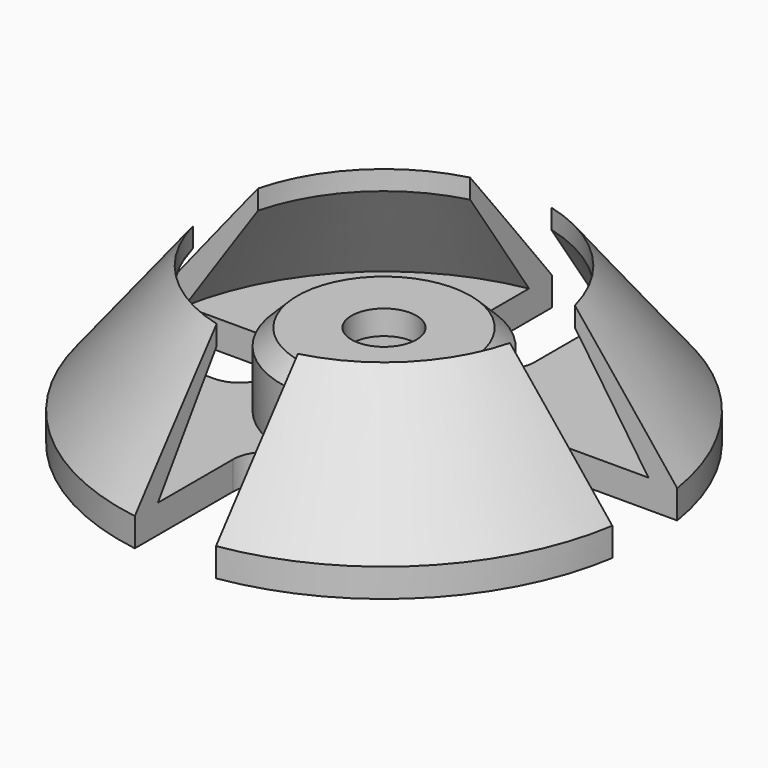
from build123d import *

# Parameters (mm, degrees)
F0_R      = 32.5
F0_R_2    = 12.65
F0_R_3    = 11.15
F1_DEPTH  = 3.5
F2_DEPTH  = 9
F3_R      = 11.15
F3_R_2    = 4
F4_DEPTH  = 3
F5_SIZE   = 2
F10_DEPTH = 25
F11_DEPTH = 15.2
F12_R     = 4


with BuildPart() as f1:
    # F0 (on Top) → F1 (new body)
    with BuildSketch(Plane.XY):
        Circle(F0_R)
        Circle(F0_R_2, mode=Mode.SUBTRACT)
        Circle(F0_R_2)
        Circle(F0_R_3, mode=Mode.SUBTRACT)
    extrude(amount=-F1_DEPTH)

    # F0 (on Top) → F2 (join)
    with BuildSketch(Plane.XY):
        Circle(F0_R_2)
        Circle(F0_R_3, mode=Mode.SUBTRACT)
    extrude(amount=F2_DEPTH)

    # F3 (on face) → F4 (join)
    with BuildSketch(Plane.XY.offset(9)):
        Circle(F3_R)
        Circle(F3_R_2, mode=Mode.SUBTRACT)
    extrude(amount=-F4_DEPTH)

    # F5
    f5_edges = [f1.edges().sort_by_distance(p)[0] for p in [
        (-12.65, 0, 9),
    ]]
    chamfer(f5_edges, length=F5_SIZE)

    # F6 (on Front) → F7 (revolve)
    with BuildSketch(Plane.XZ):
        Polygon((-20.1347596889, 15.719441213), (-32.5, 0), (-29, 0), (-20.1347596889, 13.319441213), align=None)
    revolve(axis=Axis((0, 0, 0), (0, 0, -1)))

    # F9 (on offset) → F10 (cut)
    with BuildSketch(Plane.XY.offset(9)):
        with BuildLine():
            Line((5, 35), (-5, 35))
            Line((-5, 35), (-5, 12))
            ThreePointArc((-5, 12), (0, 13), (5, 12))
            Line((5, 12), (5, 35))
        make_face()
        with BuildLine():
            Line((35, 5), (12, 5))
            ThreePointArc((12, 5), (12.747548784, 2.5495097568), (13, 0))
            ThreePointArc((13, 0), (12.747548784, -2.5495097568), (12, -5))
            Line((12, -5), (35, -5))
            Line((35, -5), (35, 5))
        make_face()
        with BuildLine():
            ThreePointArc((5, -12), (0, -13), (-5, -12))
            Line((-5, -12), (-5, -35))
            Line((-5, -35), (5, -35))
            Line((5, -35), (5, -12))
        make_face()
        with BuildLine():
            ThreePointArc((-12, -5), (-13, 0), (-12, 5))
            Line((-12, 5), (-35, 5))
            Line((-35, 5), (-35, -5))
            Line((-35, -5), (-12, -5))
        make_face()
    extrude(amount=F10_DEPTH, mode=Mode.SUBTRACT)

    # F9 (on offset) → F11 (cut)
    with BuildSketch(Plane.XY.offset(9)):
        with BuildLine():
            ThreePointArc((5, -12), (0, -13), (-5, -12))
            Line((-5, -12), (-5, -35))
            Line((-5, -35), (5, -35))
            Line((5, -35), (5, -12))
        make_face()
        with BuildLine():
            Line((5, 35), (-5, 35))
            Line((-5, 35), (-5, 12))
            ThreePointArc((-5, 12), (0, 13), (5, 12))
            Line((5, 12), (5, 35))
        make_face()
        with BuildLine():
            ThreePointArc((-12, -5), (-13, 0), (-12, 5))
            Line((-12, 5), (-35, 5))
            Line((-35, 5), (-35, -5))
            Line((-35, -5), (-12, -5))
        make_face()
        with BuildLine():
            Line((35, 5), (12, 5))
            ThreePointArc((12, 5), (12.747548784, 2.5495097568), (13, 0))
            ThreePointArc((13, 0), (12.747548784, -2.5495097568), (12, -5))
            Line((12, -5), (35, -5))
            Line((35, -5), (35, 5))
        make_face()
    extrude(amount=-F11_DEPTH, mode=Mode.SUBTRACT)

    # F12
    f12_edges = [f1.edges().sort_by_distance(p)[0] for p in [
        (-12, 5, -1.75),
        (-12, -5, -1.75),
        (-5, 12, -1.75),
        (5, 12, -1.75),
        (-5, -12, -1.75),
        (5, -12, -1.75),
        (12, -5, -1.75),
        (12, 5, -1.75),
    ]]
    fillet(f12_edges, radius=F12_R)


solid = f1.part
